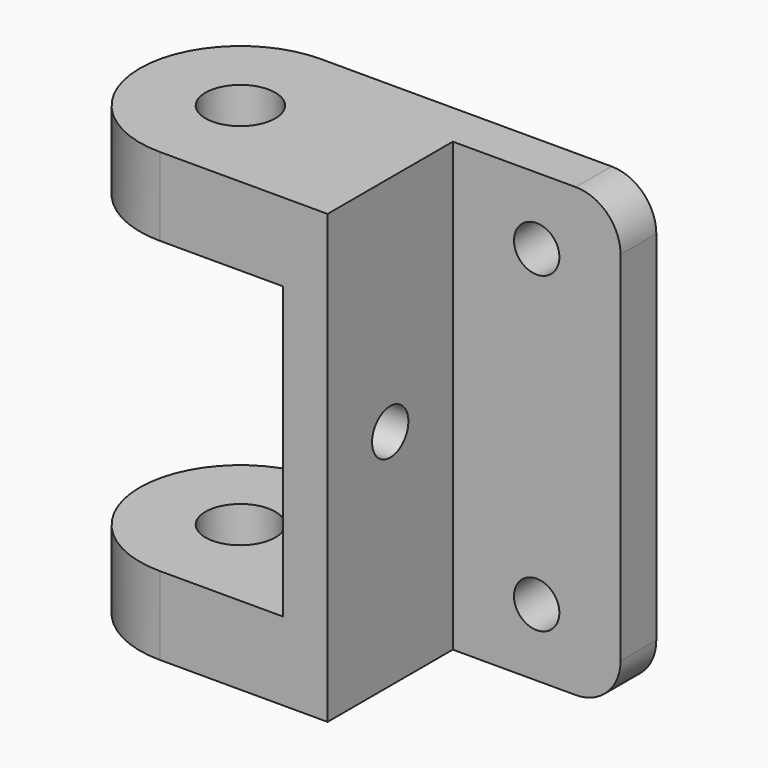
from build123d import *

# Parameters (mm, degrees)
F0_W      = 99.06
F0_H      = 101.6
F1_DEPTH  = 45.72
F2_W      = 38.1
F2_H      = 101.6
F3_DEPTH  = 35.56
F4_W      = 45.72
F4_H      = 66.04
F5_DEPTH  = 50.8
F6_R      = 7.9375
F7_DEPTH  = 101.601
F8_R      = 5.1562
F9_DEPTH  = 60.961
F10_R     = 5.1562
F11_DEPTH = 10.161
F12_R     = 10.16


with BuildPart() as f1:
    # F0 (on Front) → F1 (new body)
    with BuildSketch(Plane.XZ):
        with Locations((49.53, 50.8)):
            Rectangle(F0_W, F0_H)
    extrude(amount=F1_DEPTH)

    # F2 (on face) → F3 (cut)
    with BuildSketch(Plane.XZ.offset(45.72)):
        with Locations((80.01, 50.8)):
            Rectangle(F2_W, F2_H)
    extrude(amount=-F3_DEPTH, mode=Mode.SUBTRACT)

    # F4 (on face) → F5 (cut)
    with BuildSketch(Plane(origin=(0, 0, 0), x_dir=(0, -1, 0), z_dir=(-1, 0, 0))):
        with Locations((22.86, 50.8)):
            Rectangle(F4_W, F4_H)
    extrude(amount=-F5_DEPTH, mode=Mode.SUBTRACT)

    # F6 (on face) → F7 (cut, through all)
    with BuildSketch(Plane.XY.offset(101.6)):
        with Locations((22.86, -22.86)):
            Circle(F6_R)
        with BuildLine():
            ThreePointArc((0, -22.86), (6.6955389909, -6.6955389733), (22.8600000249, 0))
            Line((22.8600000249, 0), (0, 0))
            Line((0, 0), (0, -22.86))
        make_face()
        with BuildLine():
            Line((0, -45.72), (22.86, -45.72))
            ThreePointArc((22.86, -45.72), (6.6955389821, -39.0244610179), (0, -22.86))
            Line((0, -22.86), (0, -45.72))
        make_face()
    extrude(amount=-F7_DEPTH, mode=Mode.SUBTRACT)

    # F8 (on face) → F9 (cut, through all)
    with BuildSketch(Plane.YZ.offset(60.96)):
        with Locations((-27.94, 50.8)):
            Circle(F8_R)
    extrude(amount=-F9_DEPTH, mode=Mode.SUBTRACT)

    # F10 (on face) → F11 (cut, through all)
    with BuildSketch(Plane.XZ.offset(10.16)):
        with Locations((80.01, 86.36)):
            Circle(F10_R)
        with Locations((80.01, 15.24)):
            Circle(F10_R)
    extrude(amount=-F11_DEPTH, mode=Mode.SUBTRACT)

    # F12
    f12_edges = [f1.edges().sort_by_distance(p)[0] for p in [
        (99.06, -5.08, 101.6),
        (99.06, -5.08, 0),
    ]]
    fillet(f12_edges, radius=F12_R)


solid = f1.part
